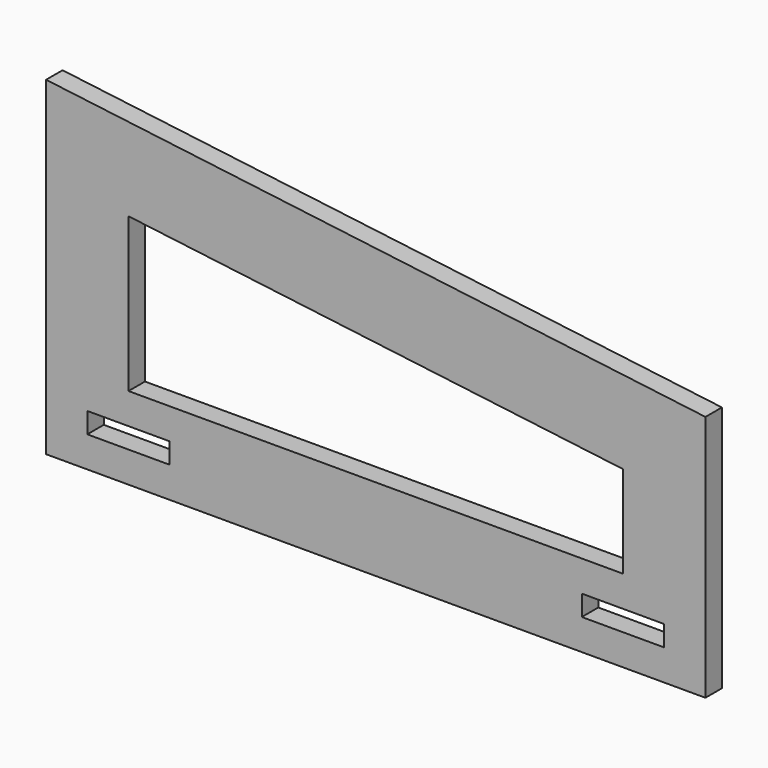
from build123d import *

# Parameters (mm, degrees)
F0_W     = 25.4
F0_H     = 6.35
F1_DEPTH = 6.35


with BuildPart() as f1:
    # F0 (on Front) → F1 (new body)
    with BuildSketch(Plane.XZ):
        Polygon((0, 101.6), (0, 0), (203.2, 0), (203.2, 76.2), align=None)
        with Locations((25.4, 12.7)):
            Rectangle(F0_W, F0_H, mode=Mode.SUBTRACT)
        with Locations((177.8, 12.7)):
            Rectangle(F0_W, F0_H, mode=Mode.SUBTRACT)
        Polygon((25.4, 25.4), (25.4, 72.827332), (177.8, 53.777332), (177.8, 25.4), align=None, mode=Mode.SUBTRACT)
    extrude(amount=F1_DEPTH)


solid = f1.part
